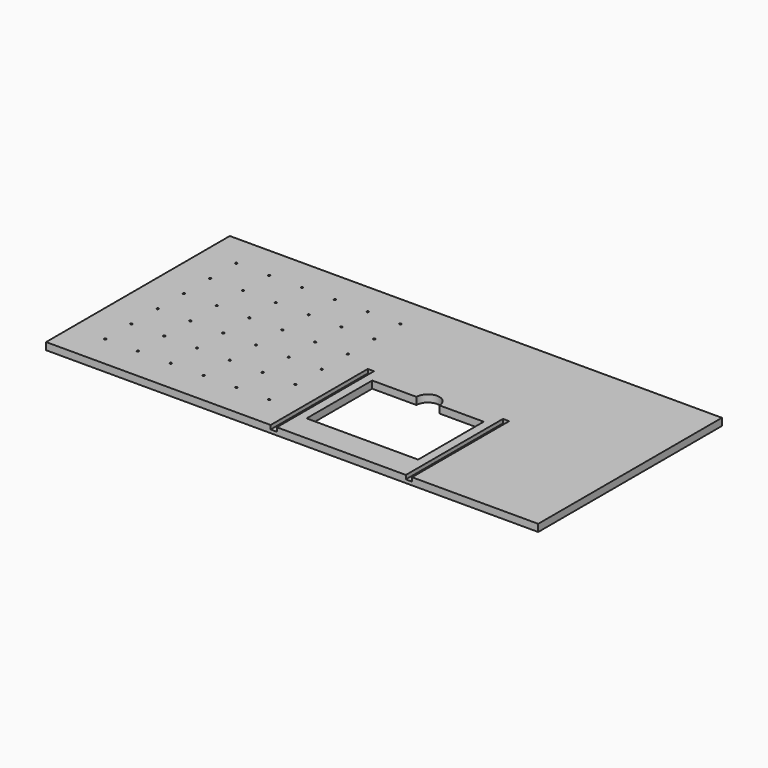
from build123d import *

# Parameters (mm, degrees)
F0_W     = 1500
F0_H     = 700
F1_DEPTH = 22
F2_W     = 18.85
F2_H     = 12
F3_DEPTH = 370
F5_D     = 6


with BuildPart() as f1:
    # F0 (on Top) → F1 (new body)
    with BuildSketch(Plane.XY):
        Rectangle(F0_W, F0_H)
        with BuildLine():
            Line((185, -20), (320, -20))
            Line((320, -20), (320, -270))
            Line((320, -270), (-20, -270))
            Line((-20, -270), (-20, -20))
            Line((-20, -20), (115, -20))
            ThreePointArc((115, -20), (150, 15), (185, -20))
        make_face(mode=Mode.SUBTRACT)
    extrude(amount=F1_DEPTH)

    # F2 (on face) → F3 (cut)
    with BuildSketch(Plane.XZ.offset(350)):
        with Locations((-56.046478, 16)):
            Rectangle(F2_W, F2_H)
        with Locations((356.046478, 16)):
            Rectangle(F2_W, F2_H)
    extrude(amount=-F3_DEPTH, mode=Mode.SUBTRACT)

    # F5 (through all)
    with Locations(Plane.XY.offset(22)):
        with Locations((-650, -250), (-550, -250), (-450, -250), (-650, -150), (-550, -150), (-450, -150), (-350, -150), (-250, -150), (-150, -150), (-150, -250), (-350, -250), (-250, -250), (-650, -50), (-650, 50), (-650, 150), (-650, 250), (-550, 250), (-550, 150), (-550, 50), (-550, -50), (-450, -50), (-450, 50), (-450, 150), (-450, 250), (-350, 250), (-250, 250), (-150, 250), (-350, 150), (-350, 50), (-350, -50), (-250, 50), (-250, 150), (-150, 50), (-250, -50), (-150, -50), (-150, 150)):
            Hole(F5_D / 2)


solid = f1.part
